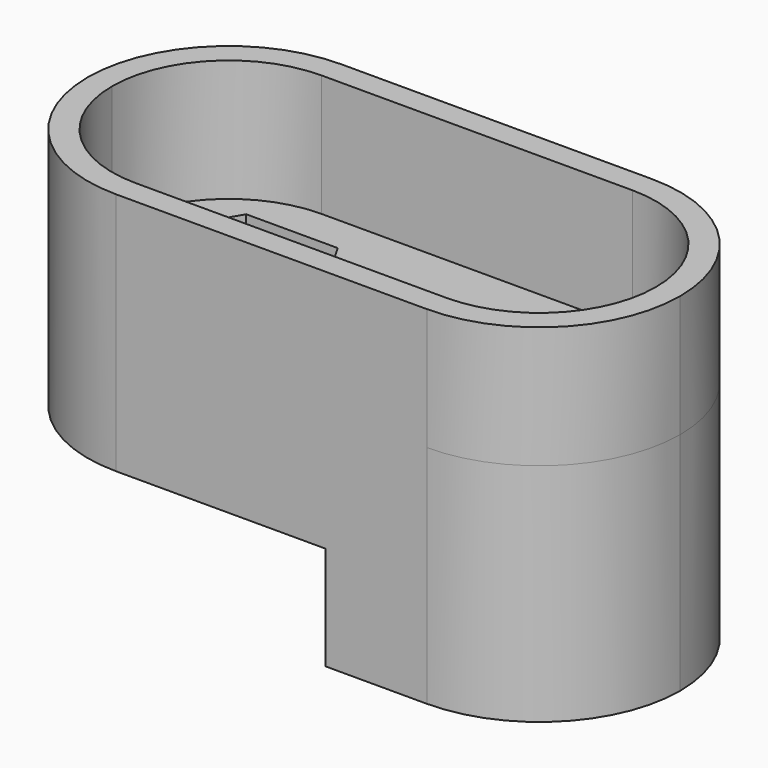
from build123d import *

# Parameters (mm, degrees)
PAD_DEPTH    = 18.5
PAD001_DEPTH = 10
PAD002_DEPTH = 10
POCKET_DEPTH = 2


with BuildPart() as part:
    # Sketch001 → Pad (new body)
    with BuildSketch(Plane.XY):
        with BuildLine():
            ThreePointArc((12.5, 0), (8.3, 4.2), (4.1, 0))
            Line((0, 0), (4.1, 0))
            Line((0, 11.55), (0, 0))
            Line((8.300016, 11.55), (0, 11.55))
            ThreePointArc((19.85, 0), (16.467089, 8.167078), (8.300016, 11.55))
            Line((12.5, 0), (19.85, 0))
        make_face()
    pad = extrude(amount=-PAD_DEPTH)

    # Sketch002 → Pad001 (join)
    with BuildSketch(Plane.XY):
        with BuildLine():
            ThreePointArc((-13, 0), (-17.2, 4.2), (-21.4, 0))
            Line((-21.4, 0), (-28.75, 0))
            ThreePointArc((-17.2, 11.55), (-25.367083, 8.167083), (-28.75, 0))
            Line((-17.2, 11.55), (0, 11.55))
            Line((0, 11.55), (0, 0))
            Line((0, 0), (-13, 0))
        make_face()
    pad001 = extrude(amount=-PAD001_DEPTH)

    # Sketch003 → Pad002 (join)
    with BuildSketch(Plane.XY):
        with BuildLine():
            Line((-17.2, 11.55), (0, 11.55))
            Line((8.3, 11.55), (0, 11.55))
            ThreePointArc((19.85, 0), (16.467083, 8.167083), (8.3, 11.55))
            Line((17.85, 0), (19.85, 0))
            ThreePointArc((17.85, 0), (15.05287, 6.75287), (8.3, 9.55))
            Line((-17.199997, 9.55), (8.3, 9.55))
            ThreePointArc((-17.199997, 9.55), (-23.952869, 6.752871), (-26.75, 0))
            Line((-28.75, 0), (-26.75, 0))
            ThreePointArc((-17.2, 11.55), (-25.367083, 8.167083), (-28.75, 0))
        make_face()
    pad002 = extrude(amount=PAD002_DEPTH)

    # Sketch004 → Pocket (cut)
    with BuildSketch(Plane.XY):
        Polygon((-9.694447, 0), (-13.447223, 6.5), (-20.952777, 6.5), (-24.705553, 0), (-20.952777, -6.5), (-13.447223, -6.5), align=None)
        Polygon((15.805553, 0), (12.052777, 6.5), (4.547223, 6.5), (0.794447, 0), (4.547223, -6.5), (12.052777, -6.5), align=None)
    pocket = extrude(amount=-POCKET_DEPTH, mode=Mode.SUBTRACT)

    # Mirrored: Pad, Pad001, Pad002, Pocket across Sketch001 H_Axis
    add(pad.mirror(Plane.ZX))
    add(pad001.mirror(Plane.ZX))
    add(pad002.mirror(Plane.ZX))
    add(pocket.mirror(Plane.ZX), mode=Mode.SUBTRACT)


solid = part.part
